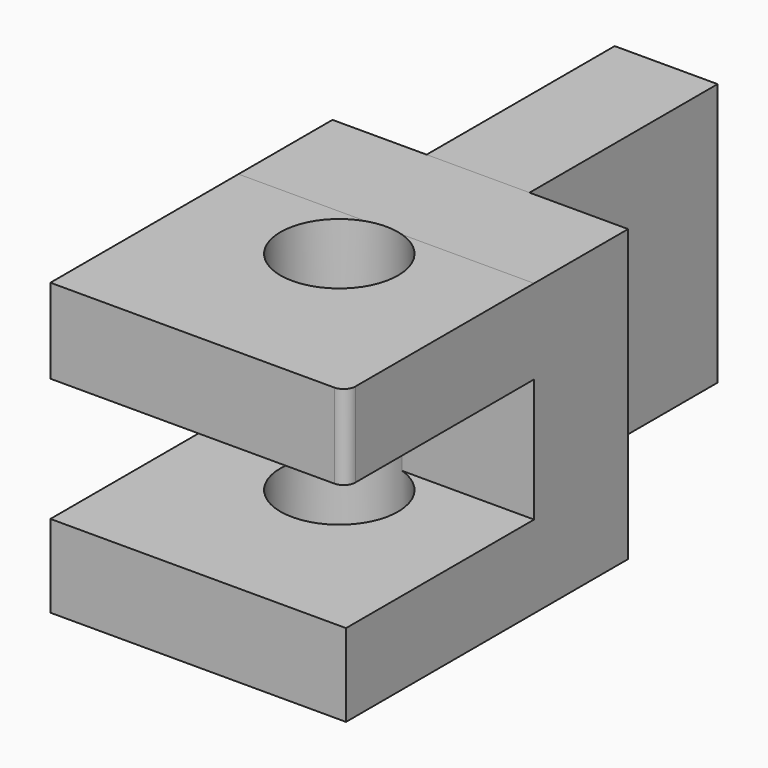
from build123d import *

# Parameters (mm, degrees)
F0_W     = 127.773218
F0_H     = 125.577171
F1_DEPTH = 50.8
F2_W     = 127.773218
F2_H     = 36.543485
F2_H_2   = 35.693683
F3_DEPTH = 101.6
F5_D     = 50.8
F6_R     = 5.08
F7_W     = 44.483204
F7_H     = 113.588304
F8_DEPTH = 101.6


with BuildPart() as f1:
    # F0 (on Front) → F1 (new body)
    with BuildSketch(Plane.XZ):
        with Locations((0.957873, -40.910383)):
            Rectangle(F0_W, F0_H)
    extrude(amount=F1_DEPTH)

    # F2 (on face) → F3 (join)
    with BuildSketch(Plane.XZ.offset(50.8)):
        with Locations((0.957873, 3.606459)):
            Rectangle(F2_W, F2_H)
        with Locations((0.957873, -85.852127)):
            Rectangle(F2_W, F2_H_2)
    extrude(amount=F3_DEPTH)

    # F5 (through all)
    with Locations(Plane.XY.offset(21.878202)):
        with Locations((0, -74.975796)):
            Hole(F5_D / 2)

    # F6
    f6_edges = [f1.edges().sort_by_distance(p)[0] for p in [
        (64.844482, -152.4, 3.606459),
    ]]
    fillet(f6_edges, radius=F6_R)

    # F7 (on face) → F8 (join)
    with BuildSketch(Plane(origin=(0, 0, 0), x_dir=(-1, 0, 0), z_dir=(0, 1, 0))):
        with Locations((0, -34.91595)):
            Rectangle(F7_W, F7_H)
    extrude(amount=F8_DEPTH)


solid = f1.part
